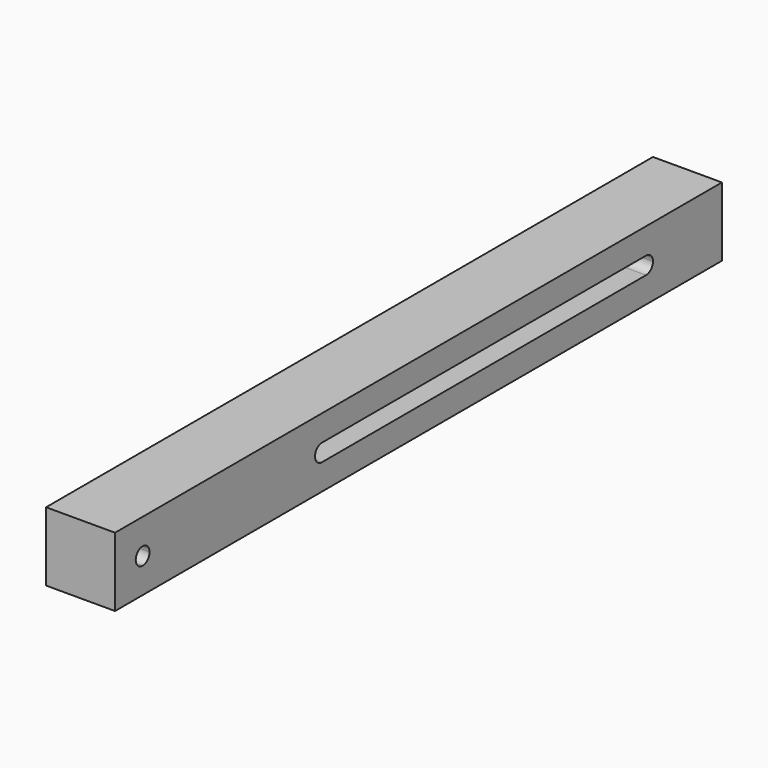
from build123d import *

# Parameters (mm, degrees)
F0_W     = 25.4
F0_H     = 25.4
F1_DEPTH = 279.4
F2_W     = 149.225
F2_H     = 6.35
F3_DEPTH = 25.4


with BuildPart() as f1:
    # F0 (on Front) → F1 (new body)
    with BuildSketch(Plane.XZ):
        with Locations((12.7, 12.7)):
            Rectangle(F0_W, F0_H)
    extrude(amount=F1_DEPTH)

    # F2 (on face) → F3 (cut)
    with BuildSketch(Plane.YZ.offset(25.4)):
        with BuildLine():
            ThreePointArc((-263.525, 12.7), (-266.7, 15.875), (-269.875, 12.7))
            Line((-269.875, 12.7), (-266.7, 12.7))
            Line((-266.7, 12.7), (-266.7, 9.525))
            ThreePointArc((-266.7, 9.525), (-264.454936, 10.454936), (-263.525, 12.7))
        make_face()
        with BuildLine():
            Line((-266.7, 12.7), (-269.875, 12.7))
            ThreePointArc((-269.875, 12.7), (-268.945064, 10.454936), (-266.7, 9.525))
            Line((-266.7, 9.525), (-266.7, 12.7))
        make_face()
        with BuildLine():
            ThreePointArc((-184.15, 15.875), (-187.325, 12.7), (-184.15, 9.525))
            Line((-184.15, 9.525), (-184.15, 15.875))
        make_face()
        with Locations((-109.5375, 12.7)):
            Rectangle(F2_W, F2_H)
        with BuildLine():
            ThreePointArc((-34.925, 9.525), (-32.679936, 10.454936), (-31.75, 12.7))
            ThreePointArc((-31.75, 12.7), (-32.679936, 14.945064), (-34.925, 15.875))
            Line((-34.925, 15.875), (-34.925, 9.525))
        make_face()
    extrude(amount=-F3_DEPTH, mode=Mode.SUBTRACT)


solid = f1.part
